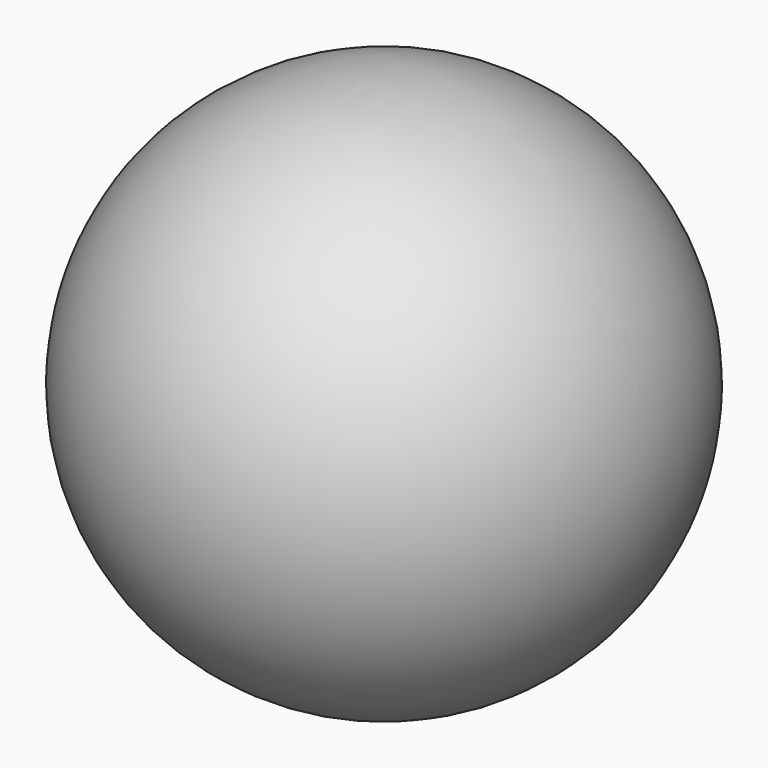
from build123d import *

# Parameters (mm, degrees)
F2_R     = 82.5
F3_DEPTH = 165.001


with BuildPart() as f1:
    # F0 (on Front) → F1 (revolve)
    with BuildSketch(Plane.XZ):
        with BuildLine():
            ThreePointArc((-160, 0), (0, 160), (160, 0))
            Line((160, 0), (165, 0))
            ThreePointArc((165, 0), (0, 165), (-165, 0))
            Line((-165, 0), (-160, 0))
        make_face()
    revolve(axis=Axis((-162.5, 0, 0), (1, 0, 0)))

    # F2 (on Front) → F3 (cut, through all)
    with BuildSketch(Plane.XZ):
        Circle(F2_R)
    extrude(amount=-F3_DEPTH, mode=Mode.SUBTRACT)


solid = f1.part
